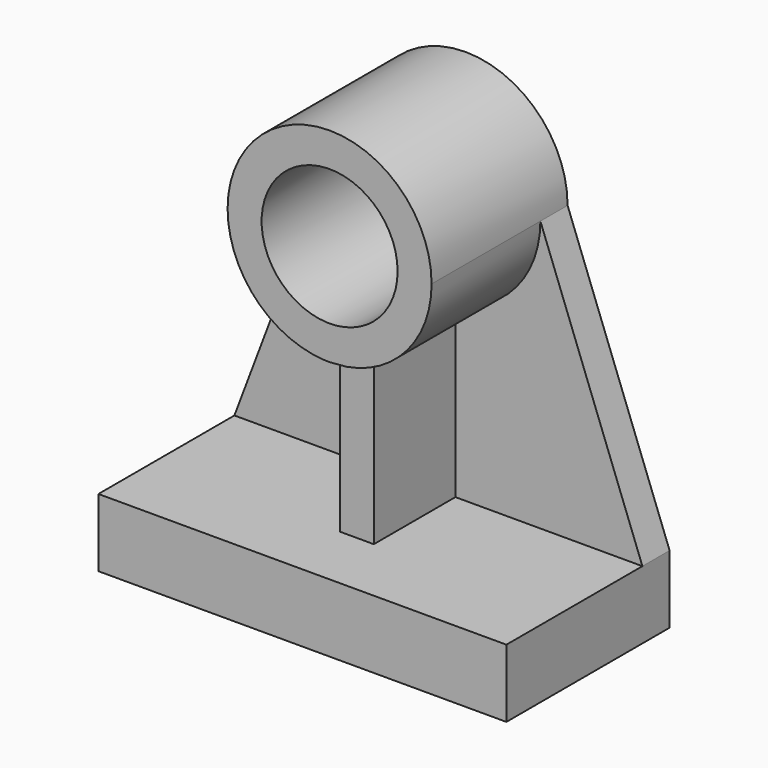
from build123d import *

# Parameters (mm, degrees)
F1_DEPTH = 152.4
F0_R     = 50.8
F2_DEPTH = 127
F3_DEPTH = 101.6
F4_DEPTH = 25.4
F5_DEPTH = 25.4


with BuildPart() as f1:
    # F0 (on Front) → F1 (new body)
    with BuildSketch(Plane.XZ):
        Polygon((152.4, -252.934213), (152.4, -202.134213), (12.7, -202.134213), (-12.7, -202.134213), (-152.4, -202.134213), (-152.4, -252.934213), align=None)
    extrude(amount=F1_DEPTH)


with BuildPart() as f2:
    # F0 (on Front) → F2 (new body)
    with BuildSketch(Plane.XZ):
        with BuildLine():
            ThreePointArc((12.7, -75.134213), (58.198711, -49.186888), (76.2, 0))
            ThreePointArc((76.2, 0), (0, 76.2), (-76.2, 0))
            ThreePointArc((-76.2, 0), (-58.198711, -49.186888), (-12.7, -75.134213))
            ThreePointArc((-12.7, -75.134213), (-6.372321, -75.933086), (0, -76.2))
            Line((0, -76.2), (12.7, -75.134213))
        make_face()
        Circle(F0_R, mode=Mode.SUBTRACT)
    extrude(amount=F2_DEPTH)


with BuildPart() as f3:
    # F0 (on Front) → F3 (new body)
    with BuildSketch(Plane.XZ):
        with BuildLine():
            Line((12.7, -202.134213), (12.7, -75.134213))
            ThreePointArc((12.7, -75.134213), (6.372321, -75.933086), (0, -76.2))
            ThreePointArc((0, -76.2), (-6.372321, -75.933086), (-12.7, -75.134213))
            Line((-12.7, -75.134213), (-12.7, -202.134213))
            Line((-12.7, -202.134213), (12.7, -202.134213))
        make_face()
    extrude(amount=F3_DEPTH)


with BuildPart() as f4:
    # F0 (on Front) → F4 (new body)
    with BuildSketch(Plane.XZ):
        with BuildLine():
            ThreePointArc((-12.7, -75.134213), (-58.198711, -49.186888), (-76.2, 0))
            Line((-76.2, 0), (-152.4, -202.134213))
            Line((-152.4, -202.134213), (-12.7, -202.134213))
            Line((-12.7, -202.134213), (-12.7, -75.134213))
        make_face()
    extrude(amount=F4_DEPTH)


with BuildPart() as f5:
    # F0 (on Front) → F5 (new body)
    with BuildSketch(Plane.XZ):
        with BuildLine():
            Line((152.4, -202.134213), (76.2, 0))
            ThreePointArc((76.2, 0), (58.198711, -49.186888), (12.7, -75.134213))
            Line((12.7, -75.134213), (12.7, -202.134213))
            Line((12.7, -202.134213), (152.4, -202.134213))
        make_face()
    extrude(amount=F5_DEPTH)


solid = Compound([f1.part, f2.part, f3.part, f4.part, f5.part])
